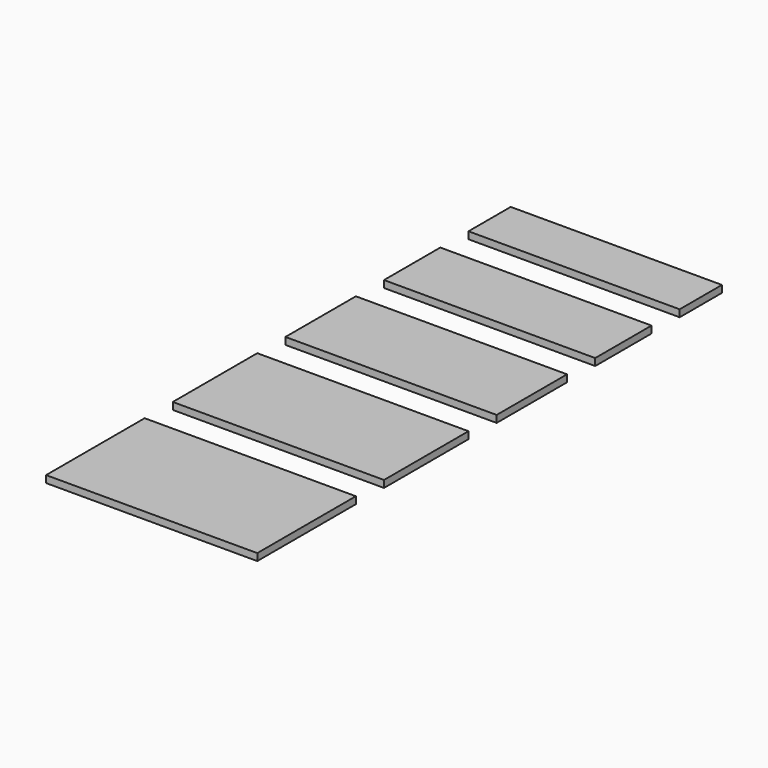
from build123d import *

# Parameters (mm, degrees)
F0_W     = 600
F0_H     = 350
F1_DEPTH = 20
F0_H_2   = 300
F2_DEPTH = 20
F0_H_3   = 250
F3_DEPTH = 20
F0_H_4   = 200
F4_DEPTH = 20
F0_H_5   = 150
F5_DEPTH = 20


with BuildPart() as f1:
    # F0 (on Top) → F1 (new body)
    with BuildSketch(Plane.XY):
        with Locations((300, 175)):
            Rectangle(F0_W, F0_H)
    extrude(amount=F1_DEPTH)


with BuildPart() as f2:
    # F0 (on Top) → F2 (new body)
    with BuildSketch(Plane.XY):
        with Locations((300, 600)):
            Rectangle(F0_W, F0_H_2)
    extrude(amount=F2_DEPTH)


with BuildPart() as f3:
    # F0 (on Top) → F3 (new body)
    with BuildSketch(Plane.XY):
        with Locations((300, 975)):
            Rectangle(F0_W, F0_H_3)
    extrude(amount=F3_DEPTH)


with BuildPart() as f4:
    # F0 (on Top) → F4 (new body)
    with BuildSketch(Plane.XY):
        with Locations((300, 1300)):
            Rectangle(F0_W, F0_H_4)
    extrude(amount=F4_DEPTH)


with BuildPart() as f5:
    # F0 (on Top) → F5 (new body)
    with BuildSketch(Plane.XY):
        with Locations((300, 1575)):
            Rectangle(F0_W, F0_H_5)
    extrude(amount=F5_DEPTH)


solid = Compound([f1.part, f2.part, f3.part, f4.part, f5.part])
